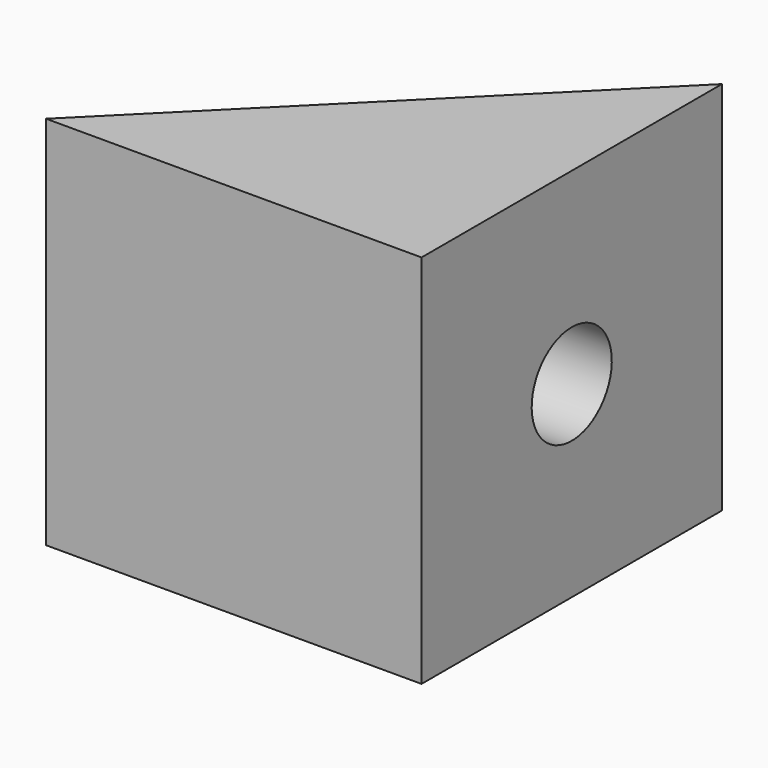
from build123d import *

# Parameters (mm, degrees)
SKETCH_W        = 30
SKETCH_H        = 30
PAD_DEPTH       = 30
POCKET_DEPTH    = 30.001
SKETCH002_R     = 4
POCKET001_DEPTH = 30.001


with BuildPart() as part:
    # Sketch → Pad (new body)
    with BuildSketch(Plane.XZ):
        with Locations((15, 15)):
            Rectangle(SKETCH_W, SKETCH_H)
    extrude(amount=PAD_DEPTH)

    # Sketch001 (on Face3 of Pad) → Pocket (cut, through all)
    with BuildSketch(Plane(origin=(0, 0, 30), x_dir=(-1, 0, 0), z_dir=(0, 0, 1))):
        Polygon((0, 0), (0, 30), (-30, 0), align=None)
    extrude(amount=-POCKET_DEPTH, mode=Mode.SUBTRACT)

    # Sketch002 (on Face3 of Pocket) → Pocket001 (cut, through all)
    with BuildSketch(Plane(origin=(30, 0, 0), x_dir=(0, 0, 1), z_dir=(1, 0, 0))):
        with Locations((15, 15)):
            Circle(SKETCH002_R)
    extrude(amount=-POCKET001_DEPTH, mode=Mode.SUBTRACT)


solid = part.part
